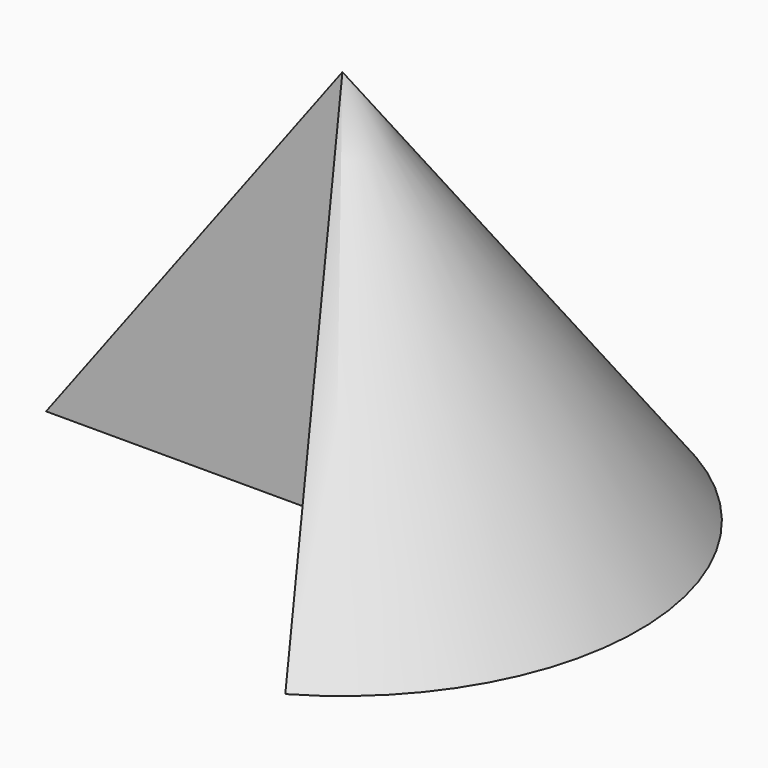
from build123d import *

# Parameters (mm, degrees)
F1_ANGLE = -240


with BuildPart() as f1:
    # F0 (on Front) → F1 (revolve)
    with BuildSketch(Plane.XZ):
        Polygon((-15, 0), (0, 0), (0, 20), align=None)
    revolve(axis=Axis((0, 0, 17.181167), (0, 0, 1)), revolution_arc=F1_ANGLE)


solid = f1.part
